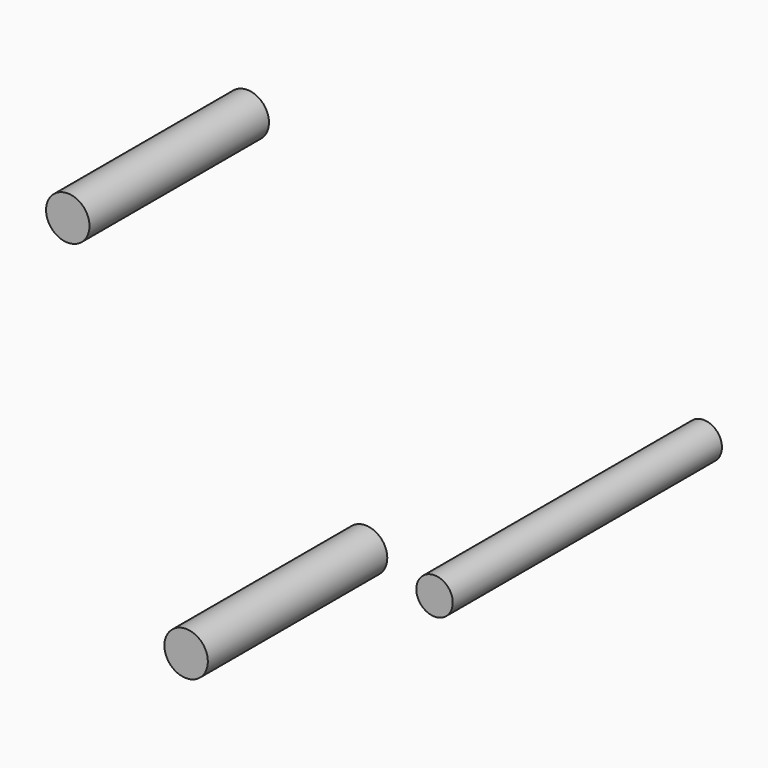
from build123d import *

# Parameters (mm, degrees)
F0_R     = 1.55
F1_DEPTH = 16
F2_R     = 1.55
F3_DEPTH = 16
F4_R     = 1.3
F5_DEPTH = 24


with BuildPart() as f1:
    # F0 (on Front) → F1 (new body)
    with BuildSketch(Plane.XZ):
        with Locations((-49.08308, 32.561257)):
            Circle(F0_R)
    extrude(amount=F1_DEPTH)


with BuildPart() as f3:
    # F2 (on Front) → F3 (new body)
    with BuildSketch(Plane.XZ):
        with Locations((-40.641274, 7.959418)):
            Circle(F2_R)
    extrude(amount=F3_DEPTH)


with BuildPart() as f5:
    # F4 (on Front) → F5 (new body)
    with BuildSketch(Plane.XZ):
        with Locations((-16.521823, 22.672283)):
            Circle(F4_R)
    extrude(amount=F5_DEPTH)


solid = Compound([f1.part, f3.part, f5.part])
